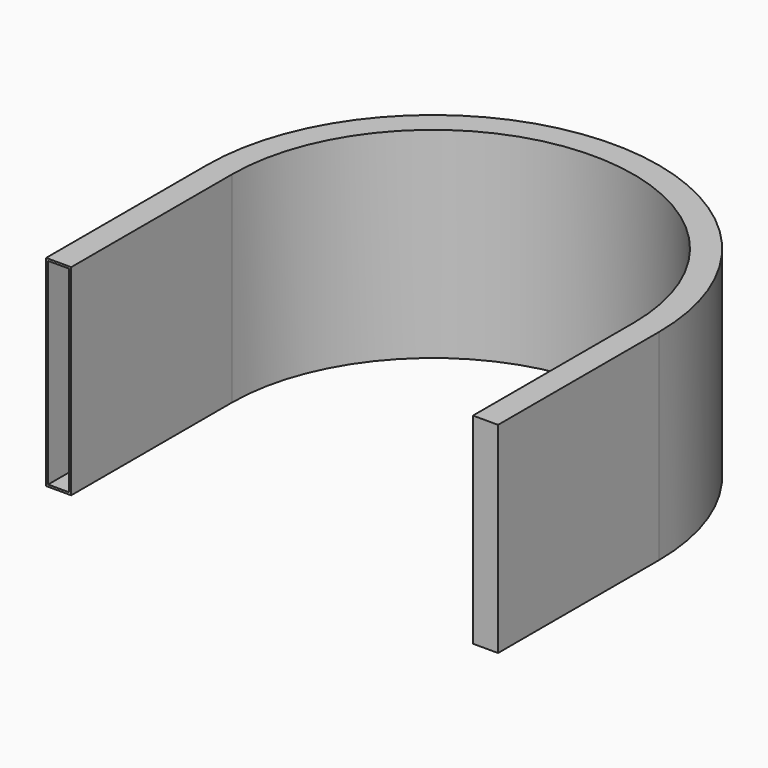
from build123d import *

# Parameters (mm, degrees)
F1_DEPTH = 25.4
F2_T     = -0.254


with BuildPart() as f1:
    # F0 (on Top) → F1 (new body)
    with BuildSketch(Plane.XY):
        with BuildLine():
            Line((-3.175, 0), (0, 0))
            Line((0, 0), (0, 25.4))
            ThreePointArc((0, 25.4), (25.4, 50.8), (50.8, 25.4))
            Line((50.8, 25.4), (50.8, 0))
            Line((50.8, 0), (53.975, 0))
            Line((53.975, 0), (53.975, 25.4))
            ThreePointArc((53.975, 25.4), (25.4, 53.975), (-3.175, 25.4))
            Line((-3.175, 25.4), (-3.175, 0))
        make_face()
    extrude(amount=F1_DEPTH)

    # F2
    f2_openings = [f1.faces().sort_by_distance(p)[0] for p in [
        (-1.5875, 0, 12.7),
    ]]
    offset(amount=F2_T, openings=f2_openings)


solid = f1.part
